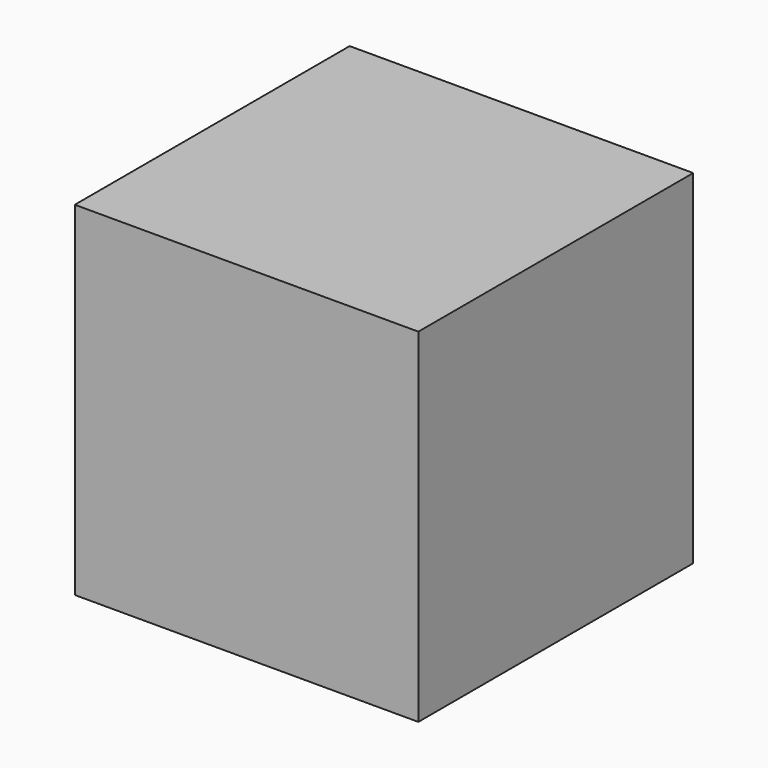
from build123d import *

# Parameters (mm, degrees)
F0_W = 60.44281
F0_H = 60.44281


with BuildPart() as f2:
    # F2: sweep along a path in F1
    with BuildLine(Plane.XZ) as f2_path:
        Line((0, 0), (0, 60.442809))
    # F0 (on Top) → F2 (sweep)
    with BuildSketch(Plane.XY):
        Rectangle(F0_W, F0_H)
    sweep(path=f2_path.line)


solid = f2.part
